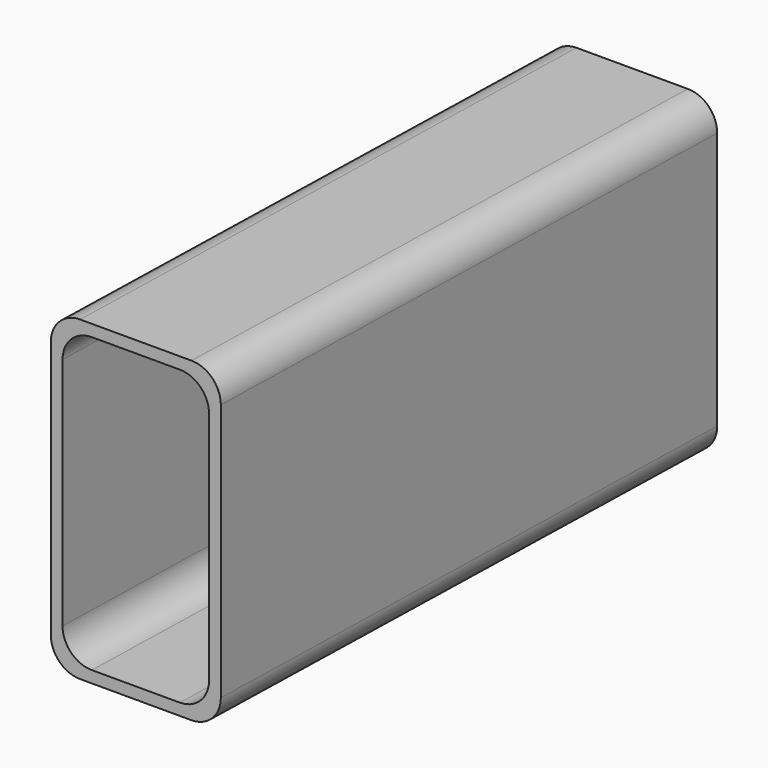
from build123d import *

# Parameters (mm, degrees)
F1_W   = 29
F1_H   = 54
F1_W_2 = 25
F1_H_2 = 50
F4_R   = 5


with BuildPart() as f3:
    # F3: sweep along a path in F2
    with BuildLine(Plane.YZ) as f3_path:
        Line((0, 0), (105.8388128877, -2.2203947883))
    # F1 (on Front) → F3 (sweep)
    with BuildSketch(Plane.XZ):
        Rectangle(F1_W, F1_H)
        Rectangle(F1_W_2, F1_H_2, mode=Mode.SUBTRACT)
    sweep(path=f3_path.line)

    # F4
    f4_edges = [f3.edges().sort_by_distance(p)[0] for p in [
        (14.5, 52.919406, 25.889803),
        (-14.5, 52.919406, 25.889803),
        (-12.5, 52.919406, -26.110197),
        (-12.5, 52.919406, 23.889803),
        (-14.5, 52.919406, -28.110197),
        (12.5, 52.919406, 23.889803),
        (14.5, 52.919406, -28.110197),
        (12.5, 52.919406, -26.110197),
    ]]
    fillet(f4_edges, radius=F4_R)


solid = f3.part
